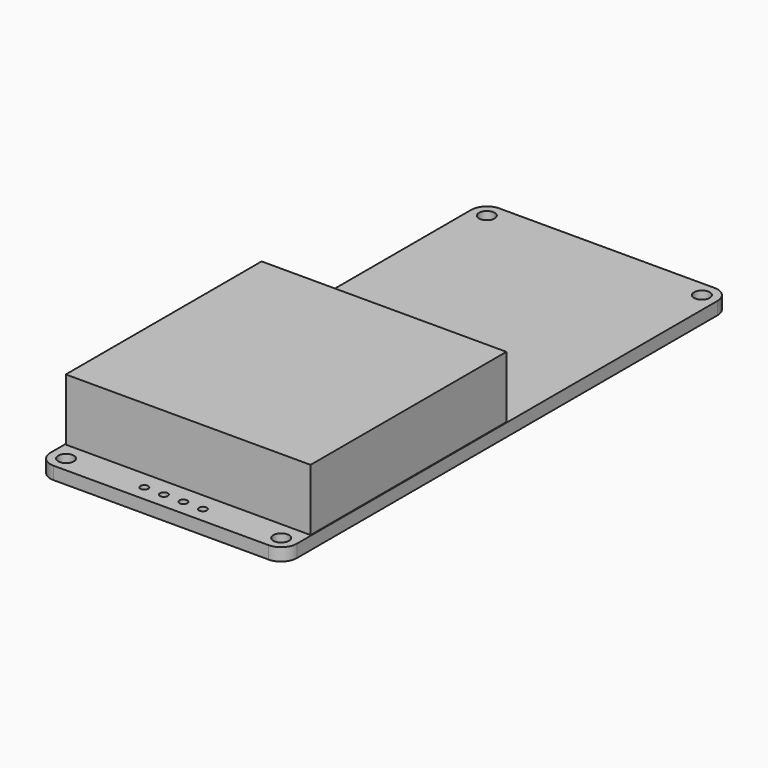
from build123d import *

# Parameters (mm, degrees)
F0_W     = 32.004
F0_H     = 72.39
F0_R     = 1.016
F1_DEPTH = 1.651
F2_W     = 31.8008
F2_H     = 31.8008
F3_DEPTH = 8.0264
F4_R     = 2.032
F5_R     = 0.508
F6_DEPTH = 1.652
F7_W     = 8.89
F7_H     = 15.24
F8_DEPTH = 2.54


with BuildPart() as f1:
    # F0 (on Top) → F1 (new body)
    with BuildSketch(Plane.XY):
        Rectangle(F0_W, F0_H)
        with Locations((-13.97, -34.163)):
            Circle(F0_R, mode=Mode.SUBTRACT)
        with Locations((13.97, -34.163)):
            Circle(F0_R, mode=Mode.SUBTRACT)
        with Locations((-13.97, 34.163)):
            Circle(F0_R, mode=Mode.SUBTRACT)
        with Locations((13.97, 34.163)):
            Circle(F0_R, mode=Mode.SUBTRACT)
    extrude(amount=F1_DEPTH)

    # F4
    f4_edges = [f1.edges().sort_by_distance(p)[0] for p in [
        (16.002, -36.195, 0.8255),
        (-16.002, -36.195, 0.8255),
        (-16.002, 36.195, 0.8255),
        (16.002, 36.195, 0.8255),
    ]]
    fillet(f4_edges, radius=F4_R)

    # F5 (on face) → F6 (cut, through all)
    with BuildSketch(Plane.XY.offset(1.651)):
        with Locations((3.81, -34.163)):
            Circle(F5_R)
        with Locations((1.27, -34.163)):
            Circle(F5_R)
        with Locations((-1.27, -34.163)):
            Circle(F5_R)
        with Locations((-3.81, -34.163)):
            Circle(F5_R)
    extrude(amount=-F6_DEPTH, mode=Mode.SUBTRACT)

    # F7 (on face) → F8 (join)
    with BuildSketch(Plane(origin=(0, 0, 0), x_dir=(1, 0, 0), z_dir=(0, 0, -1))):
        with Locations((0, 17.145)):
            Rectangle(F7_W, F7_H)
    extrude(amount=F8_DEPTH)


with BuildPart() as f3:
    # F2 (on face) → F3 (new body)
    with BuildSketch(Plane.XY.offset(1.651)):
        with Locations((0, -15.9004)):
            Rectangle(F2_W, F2_H)
    extrude(amount=F3_DEPTH)


solid = Compound([f1.part, f3.part])
